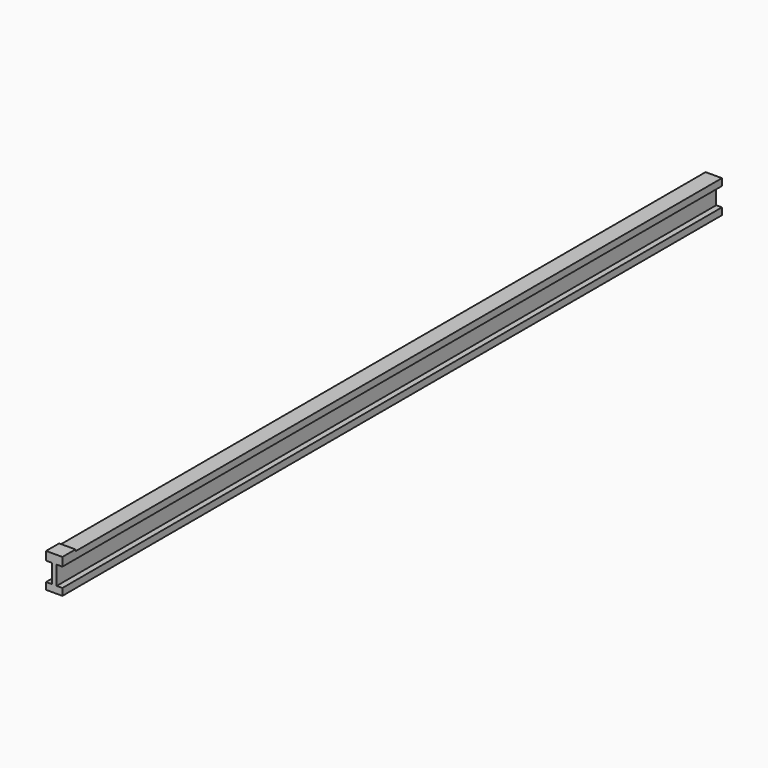
from build123d import *

# Parameters (mm, degrees)
F0_W     = 3.5
F0_H     = 4.252
F1_DEPTH = 505
F2_W     = 10
F2_H     = 10
F3_DEPTH = 1


with BuildPart() as f1:
    # F0 (on Front) → F1 (new body)
    with BuildSketch(Plane.XZ):
        Polygon((1.5, 10), (-1.5, 10), (-1.5, 5.748), (-1.5, -5.748), (-1.5, -10), (1.5, -10), (1.5, -5.748), (1.5, 5.748), align=None)
        with Locations((-3.25, -7.874)):
            Rectangle(F0_W, F0_H)
        with Locations((3.25, -7.874)):
            Rectangle(F0_W, F0_H)
        with Locations((3.25, 7.874)):
            Rectangle(F0_W, F0_H)
        with Locations((-3.25, 7.874)):
            Rectangle(F0_W, F0_H)
    extrude(amount=F1_DEPTH)

    # F2 (on face) → F3 (join)
    with BuildSketch(Plane.XY.offset(10)):
        with Locations((0, -500)):
            Rectangle(F2_W, F2_H)
    extrude(amount=F3_DEPTH)


solid = f1.part
